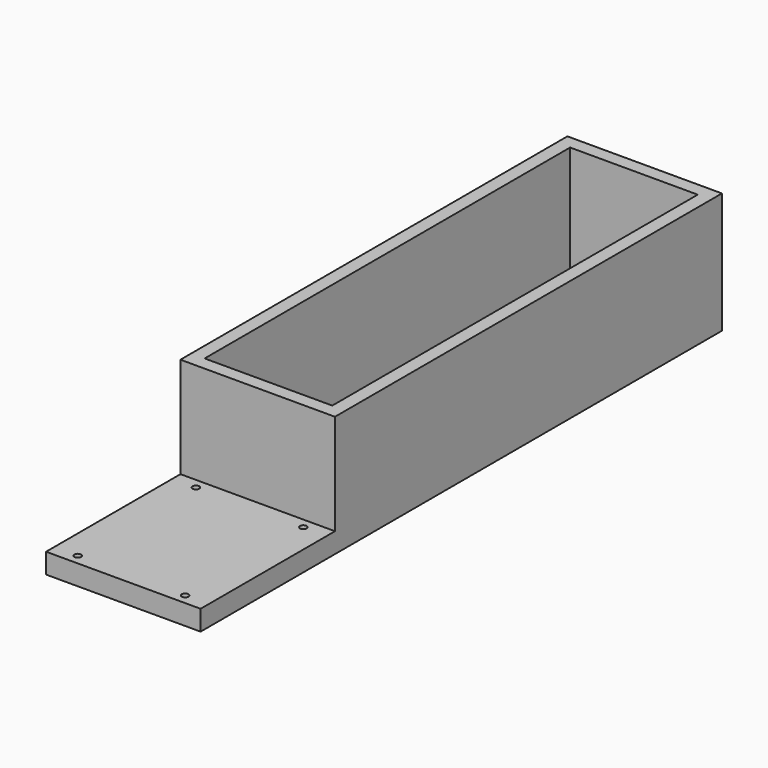
from build123d import *

# Parameters (mm, degrees)
F1_DEPTH = 2
F2_DEPTH = 18
F0_R     = 0.5
F3_DEPTH = 3


with BuildPart() as f1:
    # F0 (on Top) → F1 (new body)
    with BuildSketch(Plane.XY):
        Polygon((-3, 54.44269), (-9.5, 54.44269), (-9.5, -13.55731), (-3, -13.55731), (-3, -12.75731), (0, -12.75731), (3, -12.75731), (3, -13.55731), (9.5, -13.55731), (9.5, 54.44269), (3, 54.44269), (3, 53.64269), (0, 53.64269), (-3, 53.64269), align=None)
    extrude(amount=F1_DEPTH)

    # F0 (on Top) → F2 (join)
    with BuildSketch(Plane.XY):
        Polygon((-11.5, -15.55731), (0, -15.55731), (11.5, -15.55731), (11.5, 56.44269), (0, 56.44269), (-11.5, 56.44269), align=None)
        Polygon((-9.5, -13.55731), (-9.5, 54.44269), (-3, 54.44269), (0, 54.44269), (3, 54.44269), (9.5, 54.44269), (9.5, -13.55731), (3, -13.55731), (0, -13.55731), (-3, -13.55731), align=None, mode=Mode.SUBTRACT)
    extrude(amount=F2_DEPTH)

    # F0 (on Top) → F3 (join)
    with BuildSketch(Plane.XY):
        Polygon((11.5, -15.55731), (0, -15.55731), (-11.5, -15.55731), (-11.5, -40.55731), (0, -40.55731), (11.5, -40.55731), align=None)
        with Locations((-8, -39.05731)):
            Circle(F0_R, mode=Mode.SUBTRACT)
        with Locations((-8, -17.05731)):
            Circle(F0_R, mode=Mode.SUBTRACT)
        with Locations((8, -39.05731)):
            Circle(F0_R, mode=Mode.SUBTRACT)
        with Locations((8, -17.05731)):
            Circle(F0_R, mode=Mode.SUBTRACT)
    extrude(amount=F3_DEPTH)


solid = f1.part
